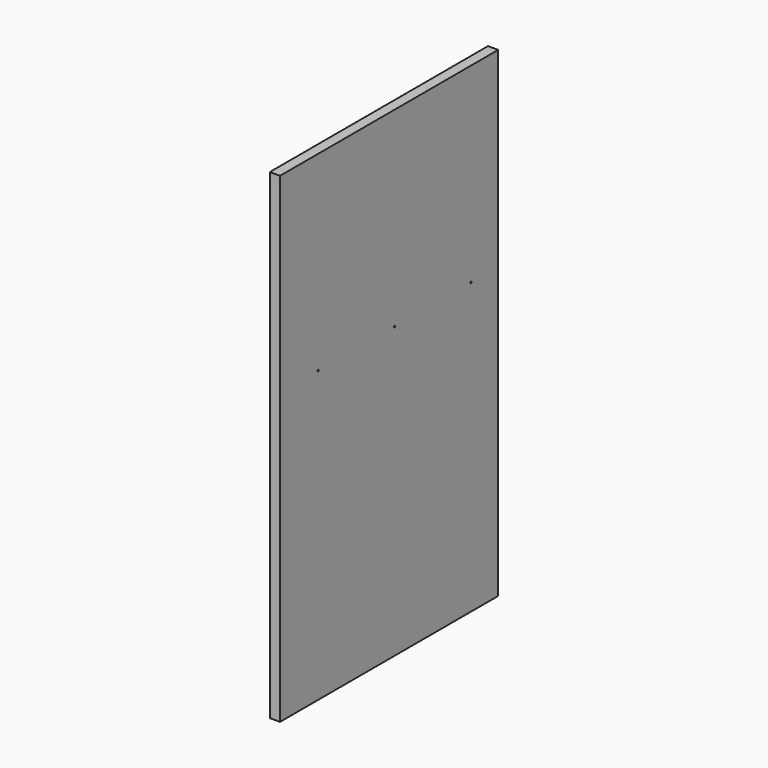
from build123d import *

# Parameters (mm, degrees)
F0_W     = 508
F0_H     = 895.35
F1_DEPTH = 19.05
F2_R     = 1.5875
F3_DEPTH = 25.4


with BuildPart() as f1:
    # F0 (on Right) → F1 (new body)
    with BuildSketch(Plane.YZ):
        with Locations((254, 447.675)):
            Rectangle(F0_W, F0_H)
    extrude(amount=F1_DEPTH)

    # F2 (on face) → F3 (cut)
    with BuildSketch(Plane.YZ.offset(19.05)):
        with Locations((88.9, 539.75)):
            Circle(F2_R)
        with Locations((266.7, 539.75)):
            Circle(F2_R)
        with Locations((444.5, 539.75)):
            Circle(F2_R)
    extrude(amount=-F3_DEPTH, mode=Mode.SUBTRACT)


solid = f1.part
